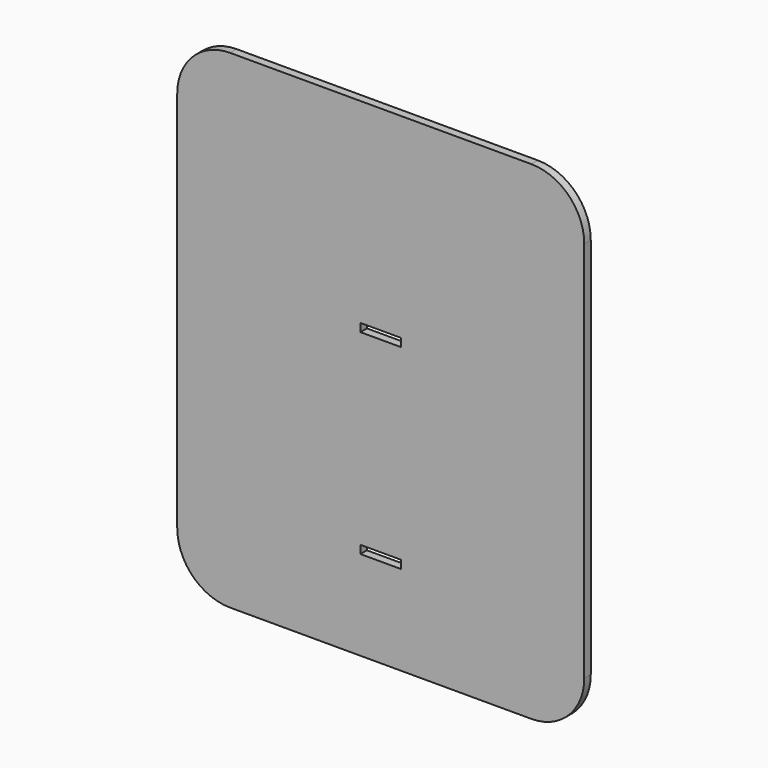
from build123d import *

# Parameters (mm, degrees)
F0_W     = 25
F0_H     = 10
F1_DEPTH = 10


with BuildPart() as f1:
    # F0 (on Front) → F1 (new body)
    with BuildSketch(Plane.XZ):
        with BuildLine():
            Line((185, 300), (-185, 300))
            ThreePointArc((-185, 300), (-230.961941, 280.961941), (-250, 235))
            Line((-250, 235), (-250, -235))
            ThreePointArc((-250, -235), (-230.961941, -280.961941), (-185, -300))
            Line((-185, -300), (185, -300))
            ThreePointArc((185, -300), (230.961941, -280.961941), (250, -235))
            Line((250, -235), (250, 235))
            ThreePointArc((250, 235), (230.961941, 280.961941), (185, 300))
        make_face()
        Polygon((-25, -180), (0, -180), (25, -180), (25, -190), (-25, -190), align=None, mode=Mode.SUBTRACT)
        with Locations((-187.5, -70)):
            Rectangle(F0_W, F0_H, mode=Mode.SUBTRACT)
        Polygon((-20, 60), (0, 60), (20, 60), (25, 60), (25, 50), (20, 50), (-20, 50), (-25, 50), (-25, 60), align=None, mode=Mode.SUBTRACT)
        with Locations((-187.5, -70)):
            Rectangle(F0_W, F0_H)
    extrude(amount=F1_DEPTH)


solid = f1.part
